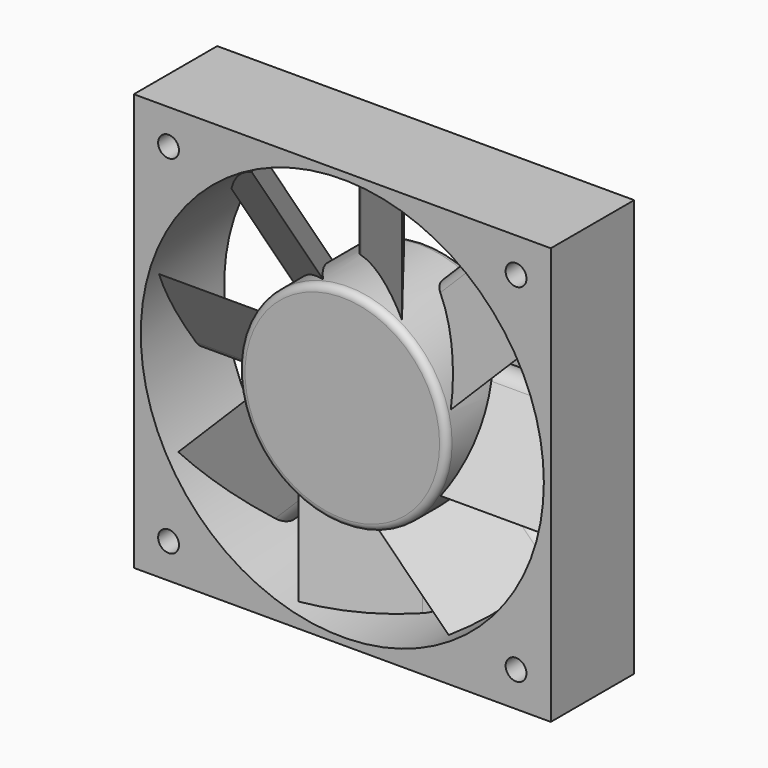
from build123d import *

# Parameters (mm, degrees)
F0_W     = 60
F0_H     = 60
F0_R     = 1.5
F0_R_2   = 29
F1_DEPTH = 15
F3_DEPTH = 30
F4_COUNT = 8
F5_R     = 15
F6_DEPTH = 15
F7_R     = 50
F7_R_2   = 28.5
F8_DEPTH = 15.0010001
F9_R     = 1


with BuildPart() as f1:
    # F0 (on Front) → F1 (new body)
    with BuildSketch(Plane.XZ):
        Rectangle(F0_W, F0_H)
        with Locations((-25, -25)):
            Circle(F0_R, mode=Mode.SUBTRACT)
        with Locations((25, -25)):
            Circle(F0_R, mode=Mode.SUBTRACT)
        with Locations((-25, 25)):
            Circle(F0_R, mode=Mode.SUBTRACT)
        Circle(F0_R_2, mode=Mode.SUBTRACT)
        with Locations((25, 25)):
            Circle(F0_R, mode=Mode.SUBTRACT)
    extrude(amount=-F1_DEPTH)


with BuildPart() as f3:
    # F2 (on Right) → F3 (new body)
    with BuildSketch(Plane.YZ):
        with BuildLine():
            ThreePointArc((12.5414622339, 1.1361150297), (12.6935906366, 4.9655645431), (8.8966268699, 4.4450909307))
            Line((8.8966268699, 4.4450909307), (1.412154641, -7.4609317817))
            Line((1.412154641, -7.4609317817), (12.5414622339, 1.1361150297))
        make_face()
    extrude(amount=F3_DEPTH)


with BuildPart() as f4_1:
    # F4: instance of F3
    add(f3.part.rotate(Axis((0, -8.8478960097, 0), (0, -1, 0)), 1 * 360 / F4_COUNT))


with BuildPart() as f4_2:
    # F4: instance of F3
    add(f3.part.rotate(Axis((0, -8.8478960097, 0), (0, -1, 0)), 2 * 360 / F4_COUNT))


with BuildPart() as f4_3:
    # F4: instance of F3
    add(f3.part.rotate(Axis((0, -8.8478960097, 0), (0, -1, 0)), 3 * 360 / F4_COUNT))


with BuildPart() as f4_4:
    # F4: instance of F3
    add(f3.part.rotate(Axis((0, -8.8478960097, 0), (0, -1, 0)), 4 * 360 / F4_COUNT))


with BuildPart() as f4_5:
    # F4: instance of F3
    add(f3.part.rotate(Axis((0, -8.8478960097, 0), (0, -1, 0)), 5 * 360 / F4_COUNT))


with BuildPart() as f4_6:
    # F4: instance of F3
    add(f3.part.rotate(Axis((0, -8.8478960097, 0), (0, -1, 0)), 6 * 360 / F4_COUNT))


with BuildPart() as f4_7:
    # F4: instance of F3
    add(f3.part.rotate(Axis((0, -8.8478960097, 0), (0, -1, 0)), 7 * 360 / F4_COUNT))


with BuildPart() as f3_1:
    add(f3.part)

    add(f4_1.part)  # F6 merges F4_1

    add(f4_2.part)  # F6 merges F4_2

    add(f4_3.part)  # F6 merges F4_3

    add(f4_4.part)  # F6 merges F4_4

    add(f4_5.part)  # F6 merges F4_5

    add(f4_6.part)  # F6 merges F4_6

    add(f4_7.part)  # F6 merges F4_7
    # F5 (on Front) → F6 (join)
    with BuildSketch(Plane.XZ):
        Circle(F5_R)
    extrude(amount=-F6_DEPTH)

    # F7 (on Front) → F8 (cut, through all)
    with BuildSketch(Plane.XZ):
        Circle(F7_R)
        Circle(F7_R_2, mode=Mode.SUBTRACT)
    extrude(amount=-F8_DEPTH, mode=Mode.SUBTRACT)

    # F9
    f9_edges = [f3_1.edges().sort_by_distance(p)[0] for p in [
        (-15, 0, 0),
        (-15, 15, 0),
    ]]
    fillet(f9_edges, radius=F9_R)


solid = Compound([f1.part, f3_1.part])
